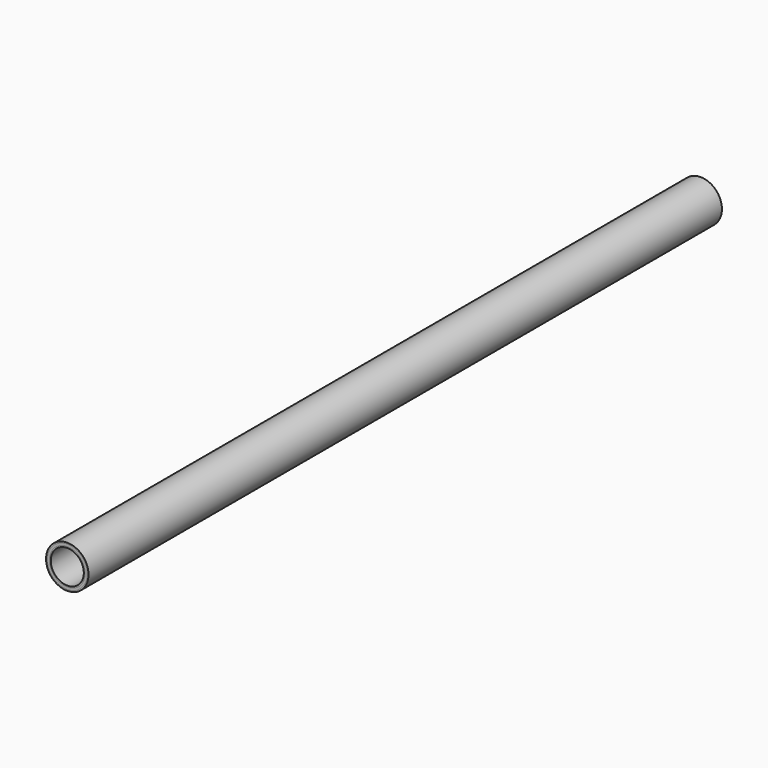
from build123d import *

# Parameters (mm, degrees)
F0_R     = 4.75
F0_R_2   = 4.45
F1_DEPTH = 177
F0_R_3   = 4
F0_R_4   = 3.7
F2_DEPTH = 177
F3_DEPTH = 177


with BuildPart() as f1:
    # F0 (on Front) → F1 (new body)
    with BuildSketch(Plane.XZ):
        Circle(F0_R)
        Circle(F0_R_2, mode=Mode.SUBTRACT)
    extrude(amount=-F1_DEPTH)


with BuildPart() as f2:
    # F0 (on Front) → F2 (new body)
    with BuildSketch(Plane.XZ):
        Circle(F0_R_3)
        Circle(F0_R_4, mode=Mode.SUBTRACT)
    extrude(amount=-F2_DEPTH)


with BuildPart() as f3:
    # F0 (on Front) → F3 (new body)
    with BuildSketch(Plane.XZ):
        Circle(F0_R_2)
        Circle(F0_R_3, mode=Mode.SUBTRACT)
    extrude(amount=-F3_DEPTH)


solid = Compound([f1.part, f2.part, f3.part])
